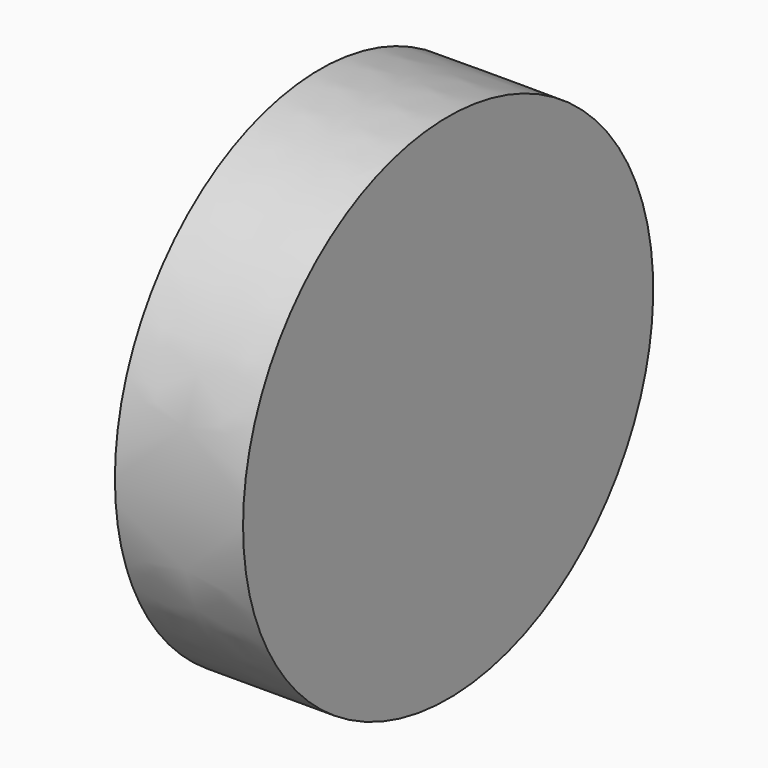
from build123d import *

# Parameters (mm, degrees)
F1_DEPTH = 25


with BuildPart() as f1:
    # F0 (on Right) → F1 (new body)
    with BuildSketch(Plane.YZ):
        with BuildLine():
            add(Edge.make_bspline(
                [(-50, 0), (-50, -86.60254), (25, -43.30127), (100, 0), (25, 43.30127), (-50, 86.60254), (-50, 0)],
                knots=[0, 0, 0, 2.094395, 2.094395, 4.18879, 4.18879, 6.283185, 6.283185, 6.283185], degree=2, weights=[1, 0.5, 1, 0.5, 1, 0.5, 1]))
        make_face()
    extrude(amount=F1_DEPTH)


solid = f1.part
